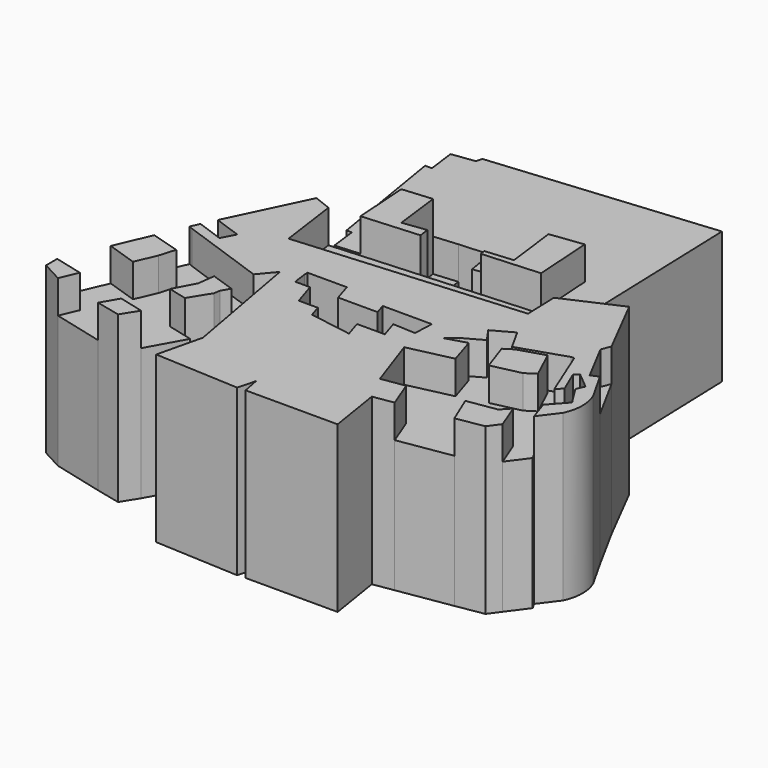
from build123d import *

# Parameters (mm, degrees)
F1_DEPTH = 20.32
F2_DEPTH = 25.4
F3_DEPTH = 15.24


with BuildPart() as f1:
    # F0 (on Top) → F1 (new body)
    with BuildSketch(Plane.XY):
        Polygon((-2.8563312193, -23.3849714753), (0, -31.6178910434), (3.5900407424, -31.0468959189), (5.253966545, -35.3403853753), (13.3913774043, -34.0461321175), (11.5887345746, -29.6920724213), (16.0852107718, -28.9769089538), (17.3230413347, -27.665270923), (18.8666243172, -31.6178910434), (21.0859552026, -28.6152679473), (20.5381844382, -27.665270923), (19.5081178099, -24.6270112693), (21.8610484153, -22.0135021955), (19.978703931, -19.0341006964), (20.5381844382, -17.779616639), (18.0963613093, -15.7410800457), (17.3771716654, -16.2123627961), (18.8912414014, -19.7440311313), (18.012104556, -20.6228792667), (14.8537242785, -12.8271691501), (14.3855512142, -12.8447450697), (11.9189447329, -14.2669968064), (13.9944718487, -18.7552513361), (12.4777718149, -19.730273153), (8.0311941236, -20.7331764345), (6.5220538527, -16.3833200932), (2.4920115247, -17.6611375064), (3.828802385, -21.8771731425), align=None)
        Polygon((0.8440233703, -17.3436863206), (-0.8008279838, -18.6440739781), (2.4920115247, -17.6611375064), (6.5220538527, -16.3833200932), (7.8981658444, -15.4986763373), (11.9189447329, -14.2669968064), (14.3855512142, -12.8447450697), (7.1841949406, -15.221263282), (5.3544805195, -11.9115494753), (2.253687242, -13.6257660233), (3.7429282777, -15.7410800457), align=None)
    extrude(amount=F1_DEPTH)


with BuildPart() as f1b:
    # F0 (on Top) → F1, piece 2 (new body)
    with BuildSketch(Plane.XY):
        Polygon((20.2753152698, -14.6779790521), (16.4557415992, -7.6738689095), (15.9023664892, -9.1104935855), (19.1031713039, -15.1873817667), align=None)
    extrude(amount=F1_DEPTH)


with BuildPart() as f1c:
    # F0 (on Top) → F1, piece 3 (new body)
    with BuildSketch(Plane.XY):
        Polygon((-46.8228585741, -24.8227091961), (-49.4978986681, -31.0220085084), (-49.7301332653, -31.4654298127), (-45.3614331782, -32.5774624944), (-46.5449728072, -35.3206731379), (-38.7844520541, -37.2960783002), (-37.282243371, -34.7102358937), (-33.4577279058, -35.6837488619), (-30.3660333157, -30.1128067076), (-31.406389556, -29.8479887717), (-34.2675590305, -29.1196911316), (-32.5437560678, -25.8750971407), (-32.2006084025, -23.2155099511), (-28.555136174, -24.4485381991), (-28.18486467, -20.1534833759), (-28.8118790829, -19.8829223642), (-42.0076586306, -15.221263282), (-42.5742674176, -14.9767677114), (-44.4719079489, -19.3744743726), (-40.0414392352, -20.6949878484), (-40.7895434855, -23.204960322), (-42.1587524692, -26.3780478322), align=None)
    extrude(amount=F1_DEPTH)


with BuildPart() as f1d:
    # F0 (on Top) → F1, piece 4 (new body)
    with BuildSketch(Plane.XY):
        Polygon((-40.9903146216, -11.5370291638), (-41.9913009402, -13.6257660233), (-37.8968156874, -15.07589221), (-36.8013270199, -13.0168683827), align=None)
    extrude(amount=F1_DEPTH)


with BuildPart() as f1e:
    # F0 (on Top) → F1, piece 5 (new body)
    with BuildSketch(Plane.XY):
        Polygon((-32.5144156814, 3.6291840952), (-32.0176258683, -0.3362385323), (-28.2403676929, -0.065170522), (-28.2403676929, 0), (-28.7861402951, 8.4869200828), (-24.2359995282, 8.8807564371), (-20.5810926691, 9.197106033), (-15.9683280735, 9.4937413863), (-15.248724393, 5.1431182585), (-11.5739500974, 5.7509348931), (-11.5739500974, 9.9116656929), (-7.6894726384, 10.3983146612), (-2.6236398034, 11.0329643275), (-2.0360853629, 1.8963247083), (1.9413031468, 2.1521006148), (2.1621094054, 1.4967124813), (3.0221424559, 1.5520190556), (2.0365323871, 31.5632301959), (-32.2006084025, 28.3283404715), (-32.4414819479, 27.3820514855), (-35.9772630036, 26.9204992801), (-35.4208610952, 22.6581096649), (-36.4749394357, 22.6581096649), (-33.3275087178, 3.6291840952), align=None)
        Polygon((2.1621094054, 1.4967124813), (-32.6176397502, -0.7398861926), (-31.3263311982, -10.0097991526), (-24.3509743422, -9.4629990475), (-14.0068293665, -8.6521187332), (3.3126724653, -7.2944383137), (3.2609242455, -5.7187373342), (3.1424516661, -2.1113212691), (3.0221424559, 1.5520190556), align=None)
    extrude(amount=F1_DEPTH)


with BuildPart() as f2:
    # F0 (on Top) → F2 (new body)
    with BuildSketch(Plane.XY):
        Polygon((-10.2383325342, -24.7675482113), (-24.2804496372, -30.9582168079), (-23.2665445656, -36.5383885801), (-11.2396394834, -41.3969941437), align=None)
        Polygon((-11.0490191728, -22.2107655018), (-10.2383325342, -24.7675482113), (-11.2396394834, -41.3969941437), (1.2989651591, -35.9694274032), (0, -31.6178910434), (-2.8563312193, -23.3849714753), (-4.141127225, -19.6817517281), (-7.6139747825, -19.5378220323), (-6.7664567091, -22.2107655018), align=None)
        Polygon((-23.7113181502, -18.2523794636), (-24.2804496372, -30.9582168079), (-10.2383325342, -24.7675482113), (-16.777202487, -23.6961077899), (-17.3640351526, -21.8453265615), (-20.2945079654, -21.8453265615), (-21.4337343042, -18.2523794636), align=None)
        Polygon((-41.9913009402, -13.6257660233), (-42.5742674176, -14.9767677114), (-42.0076586306, -15.221263282), (-28.8118790829, -19.8829223642), (-26.7418585718, -17.4115002155), (-25.0402469439, -14.4625137598), (-39.8799715712, -9.2200999383), (-40.9903146216, -11.5370291638), (-36.8013270199, -13.0168683827), (-37.8968156874, -15.07589221), align=None)
        Polygon((-35.3059135768, 0.3244895855), (-39.8799715712, -9.2200999383), (-25.0402469439, -14.4625137598), (-24.3509743422, -9.4629990475), (-31.3263311982, -10.0097991526), (-32.6176397502, -0.7398861926), align=None)
        Polygon((-24.3509743422, -9.4629990475), (-25.0402469439, -14.4625137598), (-24.0128021687, -15.4986763373), (-17.983134836, -15.4986763373), (-17.5465724479, -16.8755279004), (-14.0068293665, -8.6521187332), align=None)
        Polygon((-25.0402469439, -14.4625137598), (-26.7418585718, -17.4115002155), (-24.2804496372, -30.9582168079), (-23.7113181502, -18.2523794636), (-24.0128021687, -16.0585306585), (-24.0128021687, -15.4986763373), align=None)
        Polygon((-11.2396394834, -41.3969941437), (-23.2665445656, -36.5383885801), (-24.9183867127, -43.4554815292), (-11.9571564719, -44.1076122224), align=None)
        Polygon((1.2989651591, -35.9694274032), (-11.2396394834, -41.3969941437), (-10.7214329764, -44.02789101), (3.427925054, -44.02789101), (2.1253240795, -35.8379952138), align=None)
        Polygon((3.3126724653, -7.2944383137), (-14.0068293665, -8.6521187332), (-17.5465724479, -16.8755279004), (-17.1100100598, -18.2523794636), (-11.0490191728, -18.2523794636), (-11.5652710098, -16.6241994642), (-4.0144091472, -16.6241994642), (-4.141127225, -19.6817517281), (-0.8008279838, -18.6440739781), (0.8440233703, -17.3436863206), (3.7429282777, -15.7410800457), (2.253687242, -13.6257660233), (5.3544805195, -11.9115494753), (7.1841949406, -15.221263282), (14.3855512142, -12.8447450697), (8.9770266786, -3.4647588618), (3.3126724653, -5.7072442095), (3.2609242455, -5.7187373342), align=None)
        Polygon((3.188979396, -2.0947102454), (3.1424516661, -2.1113212691), (3.2609242455, -5.7187373342), (3.3126724653, -5.7072442095), (8.9770266786, -3.4647588618), (11.6633856669, 1.6990186414), align=None)
        Polygon((0, -31.6178910434), (1.2989651591, -35.9694274032), (2.1253240795, -35.8379952138), (5.253966545, -35.3403853753), (3.5900407424, -31.0468959189), align=None)
        Polygon((-4.141127225, -19.6817517281), (-2.8563312193, -23.3849714753), (3.828802385, -21.8771731425), (2.4920115247, -17.6611375064), (-0.8008279838, -18.6440739781), align=None)
        with BuildLine():
            Line((16.4557415992, -7.6738689095), (11.6633856669, 1.6990186414))
            Line((11.6633856669, 1.6990186414), (8.9770266786, -3.4647588618))
            Line((8.9770266786, -3.4647588618), (14.3855512142, -12.8447450697))
            Line((14.3855512142, -12.8447450697), (14.8537242785, -12.8271691501))
            Line((14.8537242785, -12.8271691501), (18.012104556, -20.6228792667))
            Line((18.012104556, -20.6228792667), (18.8912414014, -19.7440311313))
            Line((18.8912414014, -19.7440311313), (17.3771716654, -16.2123627961))
            Line((17.3771716654, -16.2123627961), (18.0963613093, -15.7410800457))
            Line((18.0963613093, -15.7410800457), (20.5381844382, -17.779616639))
            Line((20.5381844382, -17.779616639), (19.978703931, -19.0341006964))
            Line((19.978703931, -19.0341006964), (21.8610484153, -22.0135021955))
            Line((21.8610484153, -22.0135021955), (19.5081178099, -24.6270112693))
            Line((19.5081178099, -24.6270112693), (20.5381844382, -27.665270923))
            Line((20.5381844382, -27.665270923), (22.7078888565, -24.7717276216))
            ThreePointArc((22.7078888565, -24.7717276216), (23.3502079708, -21.9240778161), (22.7539129555, -19.0664362162))
            Line((22.7539129555, -19.0664362162), (20.2753152698, -14.6779790521))
            Line((20.2753152698, -14.6779790521), (19.1031713039, -15.1873817667))
            Line((19.1031713039, -15.1873817667), (15.9023664892, -9.1104935855))
            Line((15.9023664892, -9.1104935855), (16.4557415992, -7.6738689095))
        make_face()
    extrude(amount=F2_DEPTH)


with BuildPart() as f2b:
    # F0 (on Top) → F2, piece 2 (new body)
    with BuildSketch(Plane.XY):
        Polygon((-29.3065998703, -25.7496293634), (-28.555136174, -24.4485381991), (-32.2006084025, -23.2155099511), (-32.5437560678, -25.8750971407), (-34.2675590305, -29.1196911316), (-31.406389556, -29.8479887717), (-29.4418912381, -26.6666039824), align=None)
    extrude(amount=F2_DEPTH)


with BuildPart() as f2c:
    # F0 (on Top) → F2, piece 3 (new body)
    with BuildSketch(Plane.XY):
        Polygon((-45.3614331782, -32.5774624944), (-49.7301332653, -31.4654298127), (-49.7301332653, -33.6085930467), (-46.5449728072, -35.3206731379), align=None)
    extrude(amount=F2_DEPTH)


with BuildPart() as f2d:
    # F0 (on Top) → F2, piece 4 (new body)
    with BuildSketch(Plane.XY):
        Polygon((-37.282243371, -34.7102358937), (-38.7844520541, -37.2960783002), (-35.0054875016, -38.1826721132), (-33.4577279058, -35.6837488619), align=None)
    extrude(amount=F2_DEPTH)


with BuildPart() as f2e:
    # F0 (on Top) → F2, piece 5 (new body)
    with BuildSketch(Plane.XY):
        Polygon((11.5887345746, -29.6920724213), (13.3913774043, -34.0461321175), (17.5886973739, -33.346850425), (18.8666243172, -31.6178910434), (17.3230413347, -27.665270923), (16.0852107718, -28.9769089538), align=None)
    extrude(amount=F2_DEPTH)


with BuildPart() as f2f:
    # F0 (on Top) → F2, piece 6 (new body)
    with BuildSketch(Plane.XY):
        Polygon((13.9944718487, -18.7552513361), (11.9189447329, -14.2669968064), (7.8981658444, -15.4986763373), (6.5220538527, -16.3833200932), (8.0311941236, -20.7331764345), (12.4777718149, -19.730273153), align=None)
    extrude(amount=F2_DEPTH)


with BuildPart() as f2g:
    # F0 (on Top) → F2, piece 7 (new body)
    with BuildSketch(Plane.XY):
        Polygon((-44.4719079489, -19.3744743726), (-46.8228585741, -24.8227091961), (-42.1587524692, -26.3780478322), (-40.7895434855, -23.204960322), (-40.0414392352, -20.6949878484), align=None)
    extrude(amount=F2_DEPTH)


with BuildPart() as f2h:
    # F0 (on Top) → F2, piece 8 (new body)
    with BuildSketch(Plane.XY):
        Polygon((-10.8427154154, 1.3299923576), (-2.0360853629, 1.8963247083), (-2.6236398034, 11.0329643275), (-7.6894726384, 10.3983146612), (-6.7018440498, 2.5149711423), (-10.9775019023, 2.1448925914), align=None)
    extrude(amount=F2_DEPTH)


with BuildPart() as f2i:
    # F0 (on Top) → F2, piece 9 (new body)
    with BuildSketch(Plane.XY):
        Polygon((-28.2403676929, 0), (-28.2403676929, -0.065170522), (-19.4992975342, 0.5621163579), (-19.6975884058, 2.1448925914), (-23.3350372475, 1.6891914721), (-24.2359995282, 8.8807564371), (-28.7861402951, 8.4869200828), align=None)
    extrude(amount=F2_DEPTH)


with BuildPart() as f3:
    # F0 (on Top) → F3 (new body)
    with BuildSketch(Plane.XY):
        Polygon((-11.5739500974, 5.7509348931), (-10.9775019023, 2.1448925914), (-6.7018440498, 2.5149711423), (-7.6894726384, 10.3983146612), (-11.5739500974, 9.9116656929), align=None)
    extrude(amount=F3_DEPTH)


with BuildPart() as f3b:
    # F0 (on Top) → F3, piece 2 (new body)
    with BuildSketch(Plane.XY):
        Polygon((-23.3350372475, 1.6891914721), (-19.6975884058, 2.1448925914), (-20.5810926691, 9.197106033), (-24.2359995282, 8.8807564371), align=None)
    extrude(amount=F3_DEPTH)


with BuildPart() as f3c:
    # F0 (on Top) → F3, piece 3 (new body)
    with BuildSketch(Plane.XY):
        Polygon((-17.983134836, -15.4986763373), (-24.0128021687, -15.4986763373), (-24.0128021687, -16.0585306585), (-23.7113181502, -18.2523794636), (-21.4337343042, -18.2523794636), (-20.2945079654, -21.8453265615), (-17.3640351526, -21.8453265615), (-16.777202487, -23.6961077899), (-10.2383325342, -24.7675482113), (-11.0490191728, -22.2107655018), (-6.7664567091, -22.2107655018), (-7.6139747825, -19.5378220323), (-4.141127225, -19.6817517281), (-4.0144091472, -16.6241994642), (-11.5652710098, -16.6241994642), (-11.0490191728, -18.2523794636), (-17.1100100598, -18.2523794636), (-17.5465724479, -16.8755279004), align=None)
    extrude(amount=F3_DEPTH)


solid = Compound([f1.part, f1b.part, f1c.part, f1d.part, f1e.part, f2.part, f2b.part, f2c.part, f2d.part, f2e.part, f2f.part, f2g.part, f2h.part, f2i.part, f3.part, f3b.part, f3c.part])
